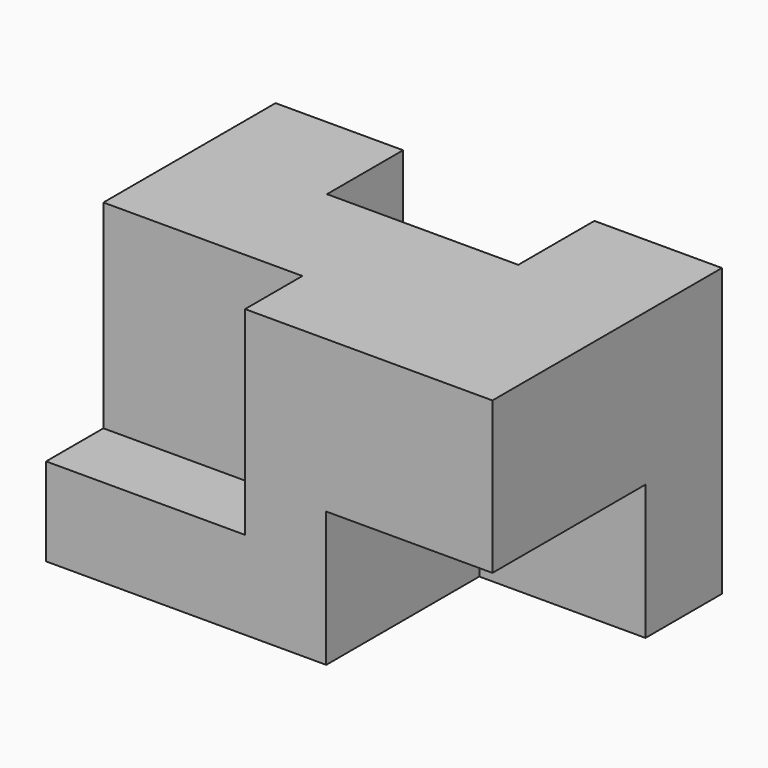
from build123d import *

# Parameters (mm, degrees)
F1_DEPTH = 35.9918
F2_W     = 24.003
F2_H     = 16.9418
F3_DEPTH = 20.8534
F4_W     = 24.9682
F4_H     = 8.9916
F5_DEPTH = 24.9428


with BuildPart() as f1:
    # F0 (on Top) → F1 (new body)
    with BuildSketch(Plane.XY):
        Polygon((0, 35.9918), (0, 0), (56.007, 0), (56.007, 35.9918), (40.004998, 35.9918), (40.004998, 24.053801), (16.001999, 24.053801), (16.001999, 35.9918), align=None)
    extrude(amount=-F1_DEPTH)

    # F2 (on face) → F3 (cut)
    with BuildSketch(Plane.YZ.offset(56.007)):
        with Locations((12.0015, -27.5209)):
            Rectangle(F2_W, F2_H)
    extrude(amount=-F3_DEPTH, mode=Mode.SUBTRACT)

    # F4 (on face) → F5 (cut)
    with BuildSketch(Plane.XY):
        with Locations((12.4841, 4.4958)):
            Rectangle(F4_W, F4_H)
    extrude(amount=-F5_DEPTH, mode=Mode.SUBTRACT)


solid = f1.part
